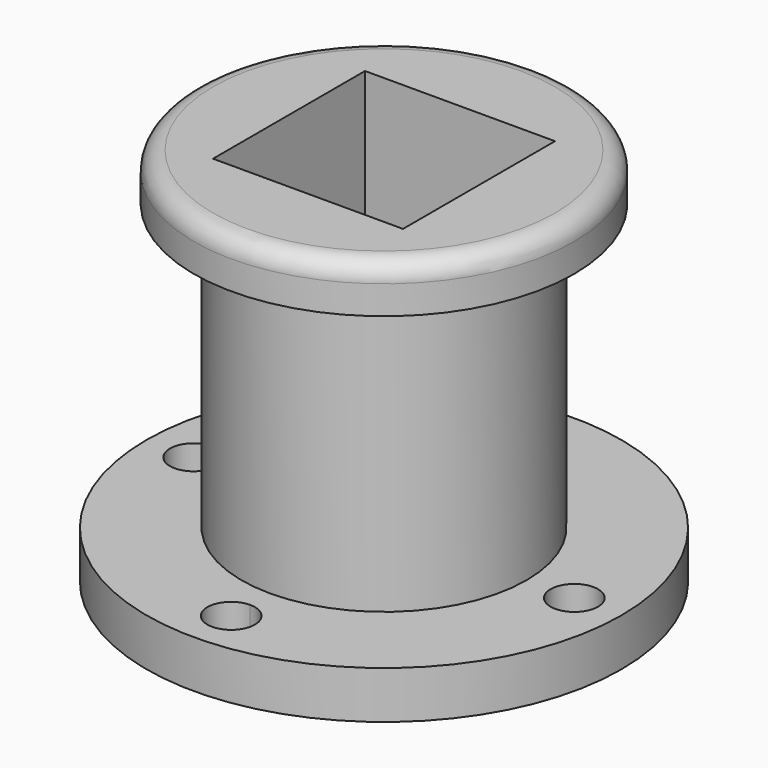
from build123d import *

# Parameters (mm, degrees)
F0_R      = 63.5
F1_DEPTH  = 12.7
F2_R      = 31.75
F3_DEPTH  = 76.2
F4_R      = 38.1
F5_DEPTH  = 76.2
F6_R      = 50.8
F7_DEPTH  = 12.7
F8_R      = 5.08
F9_R      = 6.35
F10_DEPTH = 50.8
F11_W     = 50.8
F11_H     = 50.8
F12_DEPTH = 120.142


with BuildPart() as f1:
    # F0 (on Top) → F1 (new body)
    with BuildSketch(Plane.XY):
        Circle(F0_R)
    extrude(amount=F1_DEPTH)

    # F2 (on face) → F3 (cut)
    with BuildSketch(Plane.XY.offset(12.7)):
        Circle(F2_R)
    extrude(amount=F3_DEPTH, mode=Mode.SUBTRACT)

    # F4 (on face) → F5 (join)
    with BuildSketch(Plane.XY.offset(12.7)):
        Circle(F4_R)
    extrude(amount=F5_DEPTH)

    # F6 (on face) → F7 (join)
    with BuildSketch(Plane.XY.offset(88.9)):
        Circle(F6_R)
    extrude(amount=F7_DEPTH)

    # F8
    f8_edges = [f1.edges().sort_by_distance(p)[0] for p in [
        (-50.8, 0, 101.6),
    ]]
    fillet(f8_edges, radius=F8_R)

    # F9 (on face) → F10 (cut)
    with BuildSketch(Plane(origin=(0, 0, 0), x_dir=(1, 0, 0), z_dir=(0, 0, -1))):
        with BuildLine():
            ThreePointArc((57.239421, 0), (50.889421, 6.35), (44.539421, 0))
            ThreePointArc((44.539421, 0), (50.889421, -6.35), (57.239421, 0))
        make_face()
        with BuildLine():
            ThreePointArc((6.35, -50.507508), (4.490128, -46.01738), (0, -44.157508))
            ThreePointArc((0, -44.157508), (-4.490128, -54.997636), (6.35, -50.507508))
        make_face()
        with Locations((-50.889418, 0)):
            Circle(F9_R)
        with BuildLine():
            ThreePointArc((6.35, 51.080368), (-4.490128, 55.570497), (0, 44.730368))
            ThreePointArc((0, 44.730368), (4.490128, 46.59024), (6.35, 51.080368))
        make_face()
    extrude(amount=-F10_DEPTH, mode=Mode.SUBTRACT)

    # F11 (on face) → F12 (cut)
    with BuildSketch(Plane.XY.offset(101.6)):
        Rectangle(F11_W, F11_H)
    extrude(amount=-F12_DEPTH, mode=Mode.SUBTRACT)


solid = f1.part
